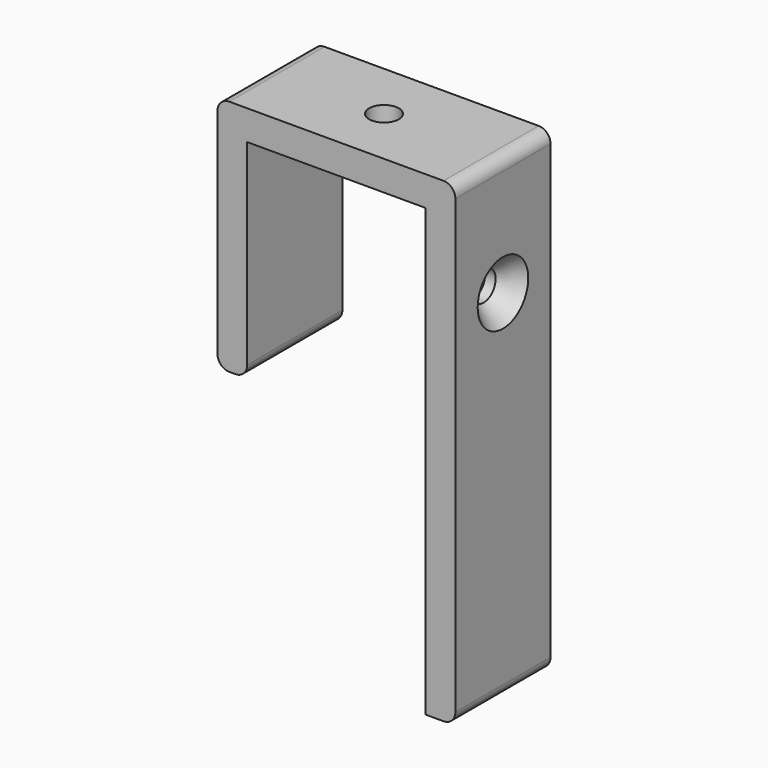
from build123d import *

# Parameters (mm, degrees)
F1_DEPTH       = 25.4
F4_D           = 6.35
F4_DEPTH       = 12.7
F4_CSINK_D     = 13.4874
F4_CSINK_ANGLE = 82
F5_D           = 6.35
F5_DEPTH       = 12.7
F6_R           = 2.54
F7_R           = 2.54


with BuildPart() as f1:
    # F0 (on Front) → F1 (new body)
    with BuildSketch(Plane.XZ):
        Polygon((50.8, 6.35), (0, 6.35), (0, -44.45), (6.35, -44.45), (6.35, 0), (44.45, 0), (44.45, -95.25), (50.8, -95.25), align=None)
    extrude(amount=-F1_DEPTH)

    # F4
    with Locations(Plane.YZ.offset(50.8)):
        with Locations((12.7, -19.05)):
            CounterSinkHole(F4_D / 2, F4_CSINK_D / 2, depth=F4_DEPTH, counter_sink_angle=F4_CSINK_ANGLE)

    # F5
    with Locations(Plane.XY.offset(6.35)):
        with Locations((25.4, 12.7)):
            Hole(F5_D / 2, depth=F5_DEPTH)

    # F6
    f6_edges = [f1.edges().sort_by_distance(p)[0] for p in [
        (0, 12.7, 6.35),
        (50.8, 12.7, 6.35),
    ]]
    fillet(f6_edges, radius=F6_R)

    # F7
    f7_edges = [f1.edges().sort_by_distance(p)[0] for p in [
        (50.8, 12.7, -95.25),
        (6.35, 12.7, -44.45),
        (0, 12.7, -44.45),
    ]]
    fillet(f7_edges, radius=F7_R)


solid = f1.part
